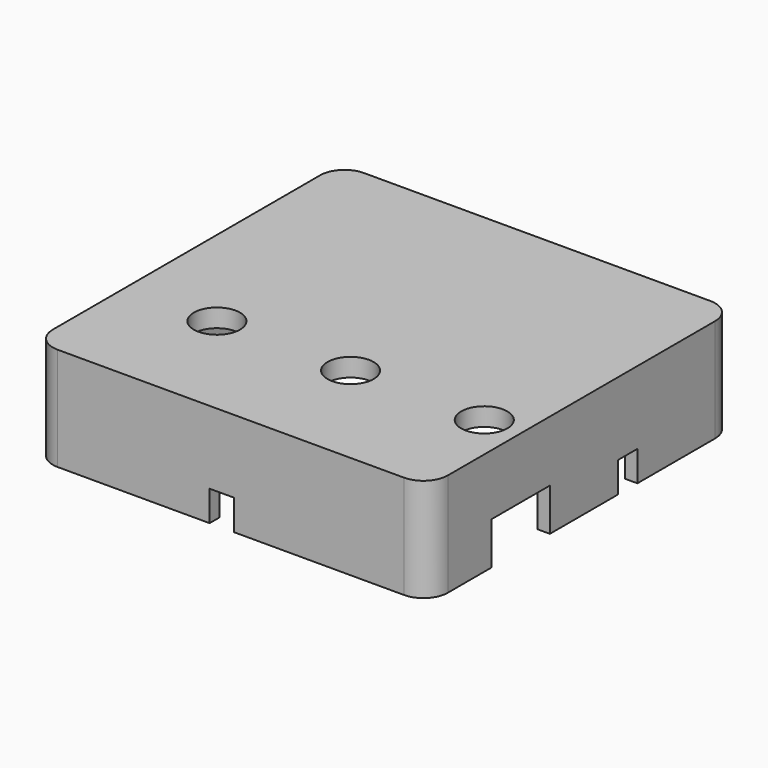
from build123d import *

# Parameters (mm, degrees)
CYLINDER_R        = 3.8
CYLINDER_DEPTH    = 50
CYLINDER001_R     = 10
CYLINDER001_DEPTH = 15
BOX001_W          = 12
BOX001_H          = 12
BOX001_DEPTH      = 10
BOX003_W          = 80
BOX003_H          = 4
BOX003_DEPTH      = 10
BOX004_W          = 4
BOX004_H          = 40
BOX004_DEPTH      = 10
CYLINDER003_R     = 2
CYLINDER003_DEPTH = 17
ARRAY001_X_COUNT  = 2
ARRAY001_X_PITCH  = 57
ARRAY001_Y_COUNT  = 2
ARRAY001_Y_PITCH  = 55
BOX002_W          = 61
BOX002_H          = 59
BOX002_DEPTH      = 17
BOX_W             = 65
BOX_H             = 63
BOX_DEPTH         = 17
FILLET_R          = 4
CYLINDER002_R     = 4
CYLINDER002_DEPTH = 17
ARRAY_X_COUNT     = 2
ARRAY_X_PITCH     = 57
ARRAY_Y_COUNT     = 2
ARRAY_Y_PITCH     = 55


with BuildPart() as encoder_hole:
    # Cylinder → Cylinder (new body)
    with BuildSketch(Plane.XY):
        Circle(CYLINDER_R)
    extrude(amount=CYLINDER_DEPTH)


with BuildPart() as encoder_cap:
    # Cylinder001 → Cylinder001 (new body)
    with BuildSketch(Plane.XY.offset(35)):
        Circle(CYLINDER001_R)
    extrude(amount=CYLINDER001_DEPTH)


with BuildPart() as encoder_fusion:
    # Box001 → Box001 (new body)
    with BuildSketch(Plane(origin=(-6, -6, 0), x_dir=(1, 0, 0), z_dir=(0, 0, 1))):
        with Locations((6, 6)):
            Rectangle(BOX001_W, BOX001_H)
    extrude(amount=BOX001_DEPTH)

    # Fusion: union encoder hole, encoder cap
    add(encoder_hole.part)
    add(encoder_cap.part)


with BuildPart() as encoder_fusion_1:
    # Fusion placement: moved
    add(encoder_fusion.part.moved(Location((0, 0, -20))))


with BuildPart() as encoder_clone001:
    # Body001 base: copy of encoder fusion
    add(encoder_fusion_1.part)


with BuildPart() as encoder_clone001_1:
    # Clone001 placement: moved
    add(encoder_clone001.part.moved(Location((0, 0, 20))))


with BuildPart() as encoder_clone001_2:
    # Body001 placement: moved
    add(encoder_clone001_1.part.moved(Location((22, 0, -20))))


with BuildPart() as encoder_compound_clone:
    # Body base: copy of encoder fusion
    add(encoder_fusion_1.part)


with BuildPart() as encoder_compound_clone_1:
    # Clone placement: moved
    add(encoder_compound_clone.part.moved(Location((0, 0, 20))))


with BuildPart() as encoder_compound_clone_2:
    # Body placement: moved
    add(encoder_compound_clone_1.part.moved(Location((44, 0, -20))))

    # Compound: union encoder clone001, encoder fusion
    add(encoder_clone001_2.part)
    add(encoder_fusion_1.part)


with BuildPart() as cube003:
    # Box003 → Box003 (new body)
    with BuildSketch(Plane(origin=(-20, 20, -22), x_dir=(1, 0, 0), z_dir=(0, 0, 1))):
        with Locations((40, 2)):
            Rectangle(BOX003_W, BOX003_H)
    extrude(amount=BOX003_DEPTH)


with BuildPart() as cube004:
    # Box004 → Box004 (new body)
    with BuildSketch(Plane(origin=(14, -40, -22), x_dir=(1, 0, 0), z_dir=(0, 0, 1))):
        with Locations((2, 20)):
            Rectangle(BOX004_W, BOX004_H)
    extrude(amount=BOX004_DEPTH)


with BuildPart() as encoder_box_extract:
    # Cylinder003 → Cylinder003 (new body)
    with BuildSketch(Plane(origin=(-11, -15, -20), x_dir=(1, 0, 0), z_dir=(0, 0, 1))):
        Circle(CYLINDER003_R)
    extrude(amount=CYLINDER003_DEPTH)

    # Array001 X: encoder box extract ×2


with BuildPart() as encoder_box_extract_1:
    add(encoder_box_extract.part)
    with Locations(*[(i * ARRAY001_X_PITCH, 0, 0) for i in range(1, ARRAY001_X_COUNT)]):
        add(encoder_box_extract.part)

    # Array001 Y: encoder box extract ×2


with BuildPart() as encoder_box_extract_2:
    add(encoder_box_extract_1.part)
    with Locations(*[(0, i * ARRAY001_Y_PITCH, 0) for i in range(1, ARRAY001_Y_COUNT)]):
        add(encoder_box_extract_1.part)

    # Fusion002: union encoder compound clone, Cube003, Cube004
    add(encoder_compound_clone_2.part)
    add(cube003.part)
    add(cube004.part)


with BuildPart() as cube002:
    # Box002 → Box002 (new body)
    with BuildSketch(Plane(origin=(-13, -17, -20), x_dir=(1, 0, 0), z_dir=(0, 0, 1))):
        with Locations((30.5, 29.5)):
            Rectangle(BOX002_W, BOX002_H)
    extrude(amount=BOX002_DEPTH)


with BuildPart() as fillet_body:
    # Box → Box (new body)
    with BuildSketch(Plane(origin=(-15, -19, -17), x_dir=(1, 0, 0), z_dir=(0, 0, 1))):
        with Locations((32.5, 31.5)):
            Rectangle(BOX_W, BOX_H)
    extrude(amount=BOX_DEPTH)

    # Cut001: cut Cube002
    add(cube002.part, mode=Mode.SUBTRACT)

    # Fillet
    fillet_edges = [fillet_body.edges().sort_by_distance(p)[0] for p in [
        (-15, -19, -8.5),
        (-15, 44, -8.5),
        (50, -19, -8.5),
        (50, 44, -8.5),
    ]]
    fillet(fillet_edges, radius=FILLET_R)


with BuildPart() as encoder_box_cut:
    # Cylinder002 → Cylinder002 (new body)
    with BuildSketch(Plane(origin=(-11, -15, -17), x_dir=(1, 0, 0), z_dir=(0, 0, 1))):
        Circle(CYLINDER002_R)
    extrude(amount=CYLINDER002_DEPTH)

    # Array X: encoder box cut ×2


with BuildPart() as encoder_box_cut_1:
    add(encoder_box_cut.part)
    with Locations(*[(i * ARRAY_X_PITCH, 0, 0) for i in range(1, ARRAY_X_COUNT)]):
        add(encoder_box_cut.part)

    # Array Y: encoder box cut ×2


with BuildPart() as encoder_box_cut_2:
    add(encoder_box_cut_1.part)
    with Locations(*[(0, i * ARRAY_Y_PITCH, 0) for i in range(1, ARRAY_Y_COUNT)]):
        add(encoder_box_cut_1.part)

    # Fusion001: union Fillet body
    add(fillet_body.part)

    # Cut: cut encoder box extract
    add(encoder_box_extract_2.part, mode=Mode.SUBTRACT)


solid = encoder_box_cut_2.part
